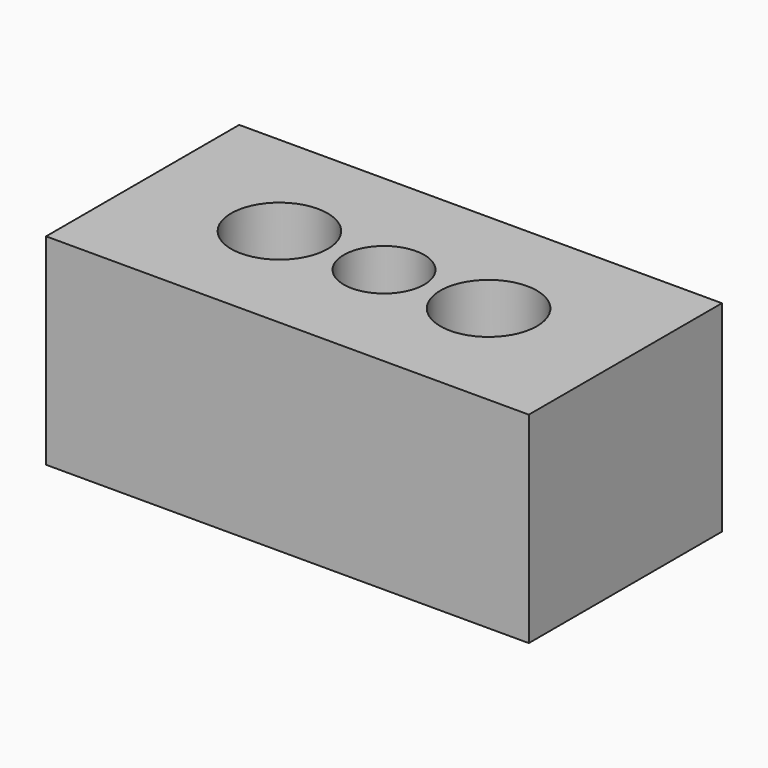
from build123d import *

# Parameters (mm, degrees)
SKETCH_W   = 6000
SKETCH_H   = 3000
SKETCH_R   = 600
SKETCH_R_2 = 500
PAD_DEPTH  = 2500


with BuildPart() as part:
    # Sketch → Pad (new body)
    with BuildSketch(Plane.XY):
        with Locations((3000, -1500)):
            Rectangle(SKETCH_W, SKETCH_H)
        with Locations((1700, -1500)):
            Circle(SKETCH_R, mode=Mode.SUBTRACT)
        with Locations((4300, -1500)):
            Circle(SKETCH_R, mode=Mode.SUBTRACT)
        with Locations((3000, -1500)):
            Circle(SKETCH_R_2, mode=Mode.SUBTRACT)
    extrude(amount=PAD_DEPTH)


solid = part.part
